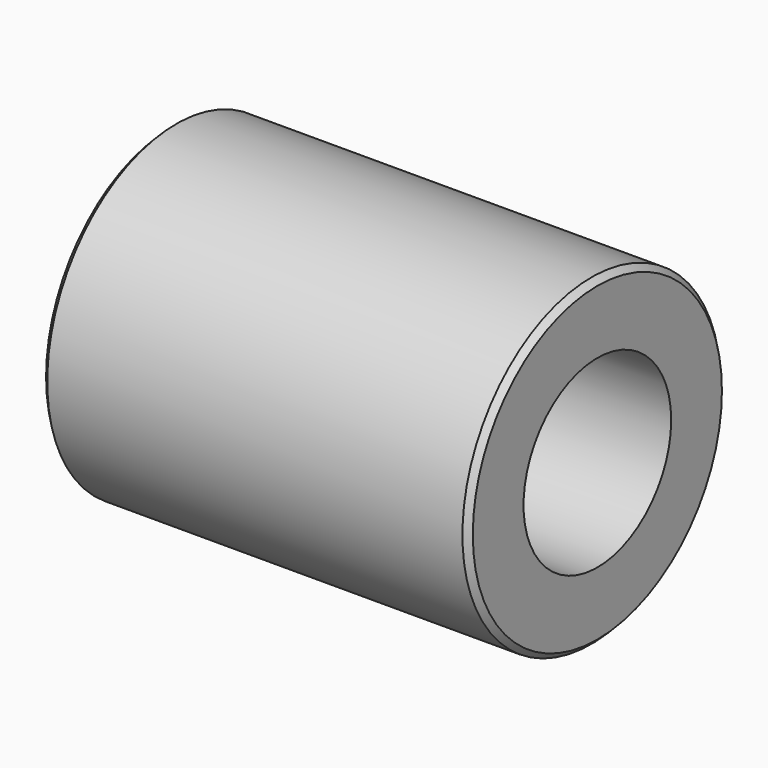
from build123d import *

# Parameters (mm, degrees)
F0_R     = 14
F0_R_2   = 8
F1_DEPTH = 37
F2_SIZE  = 0.5


with BuildPart() as f1:
    # F0 (on Right) → F1 (new body)
    with BuildSketch(Plane.YZ):
        Circle(F0_R)
        Circle(F0_R_2, mode=Mode.SUBTRACT)
    extrude(amount=-F1_DEPTH)

    # F2
    f2_edges = [f1.edges().sort_by_distance(p)[0] for p in [
        (0, -14, 0),
        (-37, -14, 0),
    ]]
    chamfer(f2_edges, length=F2_SIZE)


solid = f1.part
